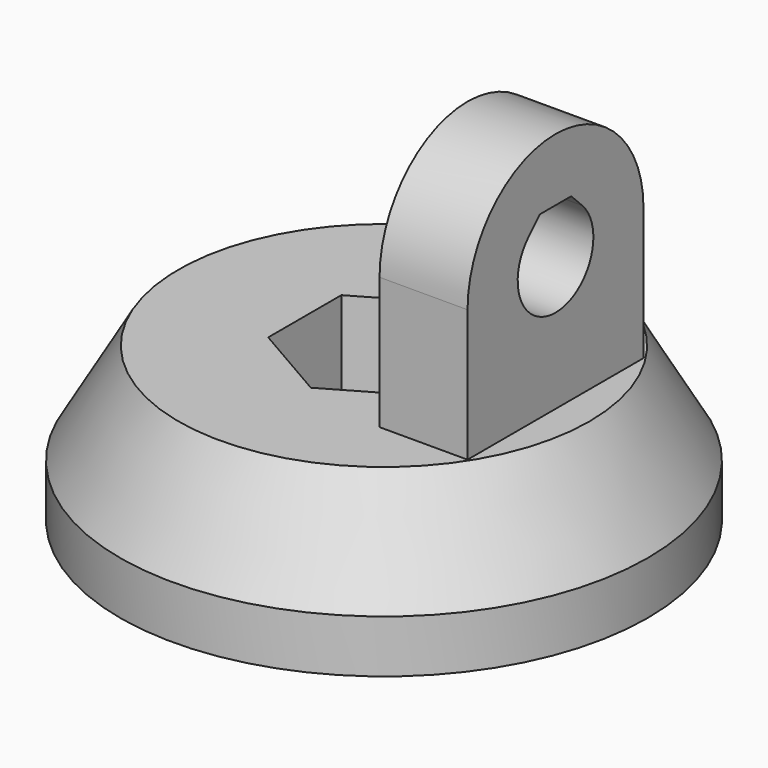
from build123d import *

# Parameters (mm, degrees)
PAD_DEPTH       = 4
POCKET_DEPTH    = 4.5
SKETCH003_R     = 2.15
POCKET001_DEPTH = 7.001


with BuildPart() as part:
    # Sketch → Revolution (revolve)
    with BuildSketch(Plane.XZ):
        Polygon((0, 0), (9.344189, 0), (12, -4.6), (12, -7), (0, -7), align=None)
    revolve(axis=Axis((0, 0, 0), (0, 0, 1)))

    # Sketch002 → Pad (new body)
    with BuildSketch(Plane.YZ.offset(3.8)):
        with BuildLine():
            ThreePointArc((5, 6), (0, 11), (-5, 6))
            Line((-5, 6), (-5, 0))
            Line((-5, 0), (5, 0))
            Line((5, 6), (5, 0))
        make_face()
        with BuildLine():
            Line((-1.52028, 7.52028), (-0.890559, 8.15))
            Line((-0.890559, 8.15), (0.890559, 8.15))
            Line((0.890559, 8.15), (1.52028, 7.52028))
            ThreePointArc((-1.52028, 7.52028), (0, 3.85), (1.52028, 7.52028))
        make_face(mode=Mode.SUBTRACT)
    extrude(amount=PAD_DEPTH)

    # Sketch001 → Pocket (cut)
    with BuildSketch(Plane.XY):
        Polygon((3.6, 2.078461), (0, 4.156922), (-3.6, 2.078461), (-3.6, -2.078461), (0, -4.156922), (3.6, -2.078461), align=None)
    extrude(amount=-POCKET_DEPTH, mode=Mode.SUBTRACT)

    # Sketch003 → Pocket001 (cut, through all)
    with BuildSketch(Plane.XY):
        Circle(SKETCH003_R)
    extrude(amount=-POCKET001_DEPTH, mode=Mode.SUBTRACT)


solid = part.part
